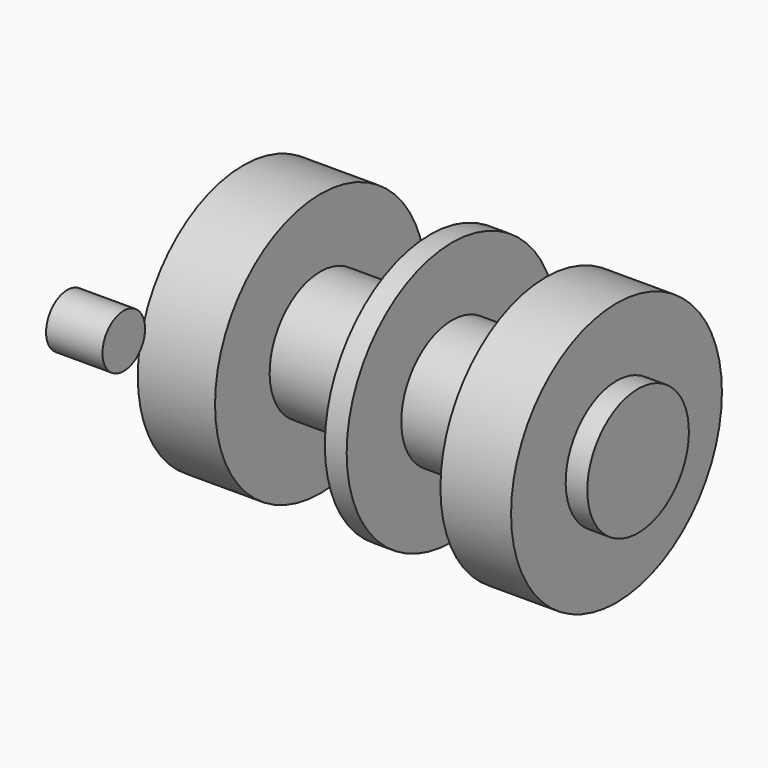
from build123d import *

# Parameters (mm, degrees)
F0_R     = 12.7
F1_DEPTH = 177.8
F4_R     = 11.993889
F5_DEPTH = 25.4


with BuildPart() as f1:
    # F0 (on Right) → F1 (new body)
    with BuildSketch(Plane.YZ):
        Circle(F0_R)
    extrude(amount=F1_DEPTH)

    # F2 (on Front) → F3 (revolve)
    with BuildSketch(Plane.XZ):
        Polygon((0, 59.33949), (0, 12.682171), (177.8, 12.682171), (177.8, 28.591886), (168.076825, 28.591886), (168.076825, 59.33949), (136.273128, 59.33949), (136.273128, 28.591886), (94.060932, 28.591886), (94.060932, 59.33949), (84.230696, 59.33949), (84.230696, 28.591886), (62.192257, 28.591886), (34.790394, 28.591886), (34.790394, 59.33949), align=None)
    revolve(axis=Axis((88.9, 0, 0), (1, 0, 0)))


with BuildPart() as f5:
    # F4 (on Right) → F5 (new body)
    with BuildSketch(Plane.YZ):
        with Locations((-98.968931, 38.230471)):
            Circle(F4_R)
    extrude(amount=F5_DEPTH)


solid = Compound([f1.part, f5.part])
